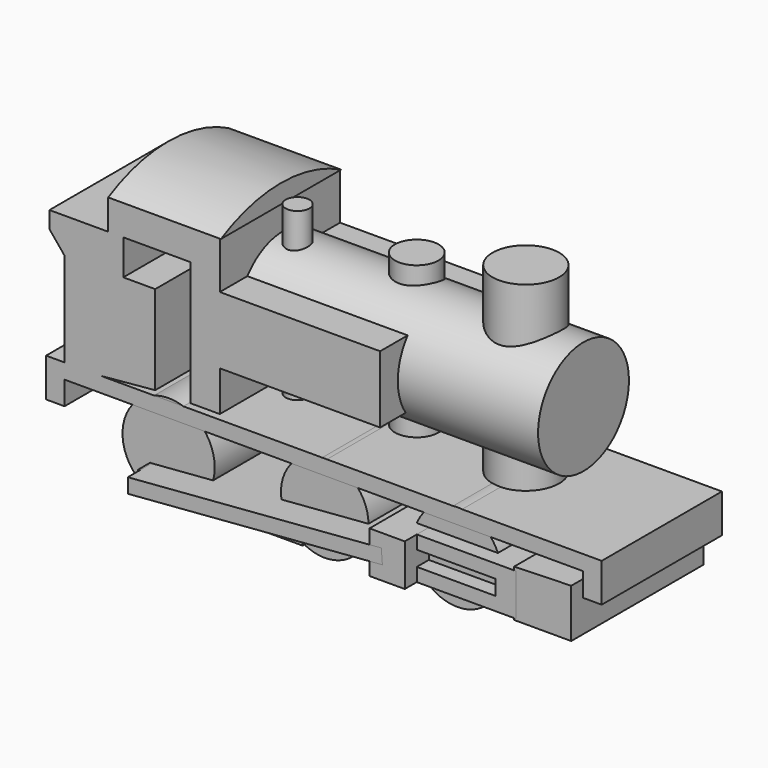
from build123d import *

# Parameters (mm, degrees)
F0_R      = 7.790779
F0_R_2    = 7.398601
F0_R_3    = 7.425753
F1_DEPTH  = 25.4
F3_DEPTH  = 25.4
F5_DEPTH  = 25.4
F6_R      = 9.600592
F7_DEPTH  = 50.8
F9_DEPTH  = 27.94
F11_DEPTH = 27.94
F12_W     = 27.804894
F12_H     = 2.269787
F13_DEPTH = 27.94
F14_W     = 5.95819
F14_H     = 7.093086
F15_DEPTH = 30.48
F17_DEPTH = 30.48
F18_R     = 5.631747
F19_DEPTH = 45.72
F20_R     = 3.688405
F21_DEPTH = 40.64
F22_R     = 2.006228
F23_DEPTH = 43.18
F25_DEPTH = 19.05


with BuildPart() as f1:
    # F0 (on Front) → F1 (new body)
    with BuildSketch(Plane.XZ):
        with Locations((-8.653563, 7.660532)):
            Circle(F0_R)
        with Locations((17.732713, 7.660532)):
            Circle(F0_R_2)
        with Locations((40.146861, 7.660532)):
            Circle(F0_R_3)
    extrude(amount=F1_DEPTH)


with BuildPart() as f3:
    # F2 (on Front) → F3 (new body)
    with BuildSketch(Plane.XZ):
        Polygon((64.547077, 15.037341), (-12.058245, 15.037341), (-29.365372, 15.037341), (-29.365372, 8.511703), (-26.244415, 8.511703), (-26.244415, 12.483831), (61.426118, 12.483831), (61.426118, 8.511703), (64.547077, 8.511703), align=None)
    extrude(amount=F3_DEPTH)

    # F4 (on Front) → F5 (join)
    with BuildSketch(Plane.XZ):
        Polygon((-26.244415, 30.925851), (-26.244415, 14.469894), (-10.923351, 15.88851), (-10.923351, 30.925851), (-16.314095, 30.925851), (-16.314095, 36.884043), (-4.965159, 36.884043), (-4.965159, 15.88851), (0, 15.88851), (0, 22.697873), (27.095586, 22.697873), (27.095586, 34.04681), (0, 34.04681), (0, 41.991066), (-18.867606, 41.991066), (-18.867606, 36.884043), (-28.797926, 36.884043), (-28.797926, 34.04681), align=None)
    extrude(amount=F5_DEPTH)

    # F6 (on Right) → F7 (join)
    with BuildSketch(Plane.YZ):
        with Locations((-12.058245, 28.088616)):
            Circle(F6_R)
    extrude(amount=F7_DEPTH)

    # F8 (on Front) → F9 (join)
    with BuildSketch(Plane.XZ):
        Polygon((61.426118, 3.120958), (61.426118, 11.348937), (51.77952, 11.065213), (51.77952, 3.120958), align=None)
    extrude(amount=F9_DEPTH)

    # F24 (on face) → F25 (join)
    with BuildSketch(Plane(origin=(-18.867606, 0, 0), x_dir=(0, -1, 0), z_dir=(-1, 0, 0))):
        with BuildLine():
            Line((0, 41.991066), (25.4, 41.991066))
            ThreePointArc((25.4, 41.991066), (12.7, 45.177073), (0, 41.991066))
        make_face()
    extrude(amount=-F25_DEPTH)


with BuildPart() as f11:
    # F10 (on Front) → F11 (new body)
    with BuildSketch(Plane.XZ):
        Polygon((52.063245, 3.404681), (52.063245, 10.497767), (29.365374, 10.497767), (29.649096, 8.227979), (48.658565, 8.227979), (48.658565, 5.674468), (29.365374, 5.674468), (29.649096, 3.404681), align=None)
    extrude(amount=F11_DEPTH)


with BuildPart() as f13:
    # F12 (on Front) → F13 (new body)
    with BuildSketch(Plane.XZ):
        with Locations((2.127926, 3.688404)):
            Rectangle(F12_W, F12_H)
    extrude(amount=F13_DEPTH)


with BuildPart() as f15:
    # F14 (on Front) → F15 (new body)
    with BuildSketch(Plane.XZ):
        with Locations((32.344469, 6.951224)):
            Rectangle(F14_W, F14_H)
    extrude(amount=F15_DEPTH)


with BuildPart() as f17:
    # F16 (on Front) → F17 (new body)
    with BuildSketch(Plane.XZ):
        Polygon((31.351436, 8.227979), (-11.490799, 4.823298), (-11.490799, 2.359978), (31.545968, 5.780118), align=None)
    extrude(amount=F17_DEPTH)


with BuildPart() as f19:
    # F18 (on Top) → F19 (new body)
    with BuildSketch(Plane.XY):
        with Locations((40.714309, -11.632659)):
            Circle(F18_R)
    extrude(amount=F19_DEPTH)


with BuildPart() as f21:
    # F20 (on Top) → F21 (new body)
    with BuildSketch(Plane.XY):
        with Locations((21.137392, -10.214043)):
            Circle(F20_R)
    extrude(amount=F21_DEPTH)


with BuildPart() as f23:
    # F22 (on Top) → F23 (new body)
    with BuildSketch(Plane.XY):
        with Locations((3.262817, -13.051277)):
            Circle(F22_R)
    extrude(amount=F23_DEPTH)


solid = Compound([f1.part, f3.part, f11.part, f13.part, f15.part, f17.part, f19.part, f21.part, f23.part])
